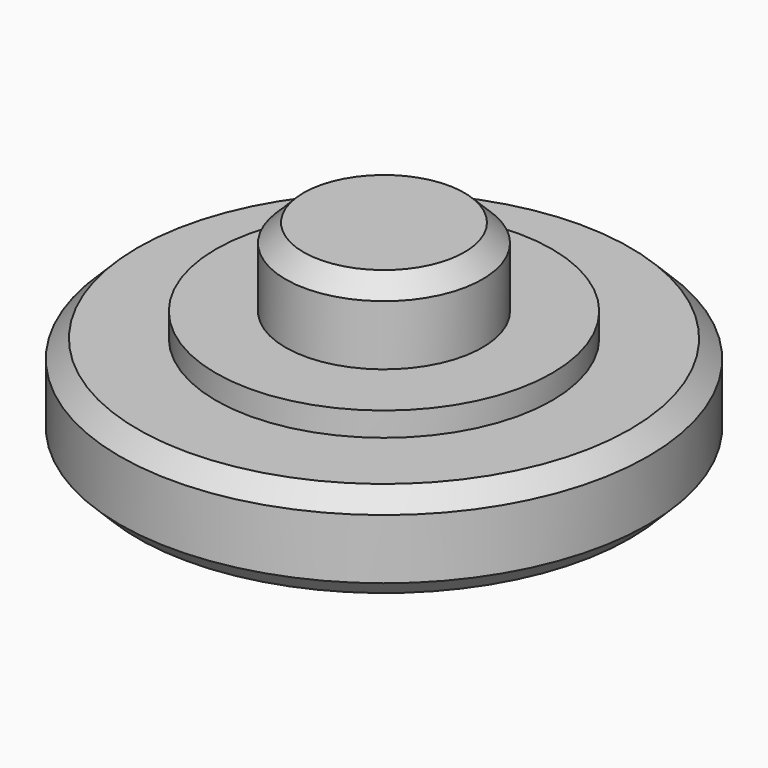
from build123d import *

# Parameters (mm, degrees)
F2_R    = 3
F3_SIZE = 0.75
F4_SIZE = 0.75


with BuildPart() as f1:
    # F0 (on Front) → F1 (revolve)
    with BuildSketch(Plane.XZ):
        with BuildLine():
            Line((-11, -1.722947), (-11, -5.722947))
            Line((-11, -5.722947), (-8, -5.722947))
            ThreePointArc((-8, -5.722947), (-5.767763, -3.181992), (-2.775571, -1.605249))
            Line((-2.775571, -1.605249), (0, -1.605249))
            Line((0, -1.605249), (0, 2.527053))
            Line((0, 2.527053), (-4.1, 2.527053))
            Line((-4.1, 2.527053), (-4.1, -0.722947))
            Line((-4.1, -0.722947), (-7, -0.722947))
            Line((-7, -0.722947), (-7, -1.722947))
            Line((-7, -1.722947), (-11, -1.722947))
        make_face()
    revolve(axis=Axis((0, 0, -0.8276), (0, 0, -1)))

    # F2
    f2_edges = [f1.edges().sort_by_distance(p)[0] for p in [
        (8, 0, -5.722947),
    ]]
    fillet(f2_edges, radius=F2_R)

    # F3
    f3_edges = [f1.edges().sort_by_distance(p)[0] for p in [
        (11, 0, -5.722947),
        (11, 0, -1.722947),
    ]]
    chamfer(f3_edges, length=F3_SIZE)

    # F4
    f4_edges = [f1.edges().sort_by_distance(p)[0] for p in [
        (4.1, 0, 2.527053),
    ]]
    chamfer(f4_edges, length=F4_SIZE)


solid = f1.part
